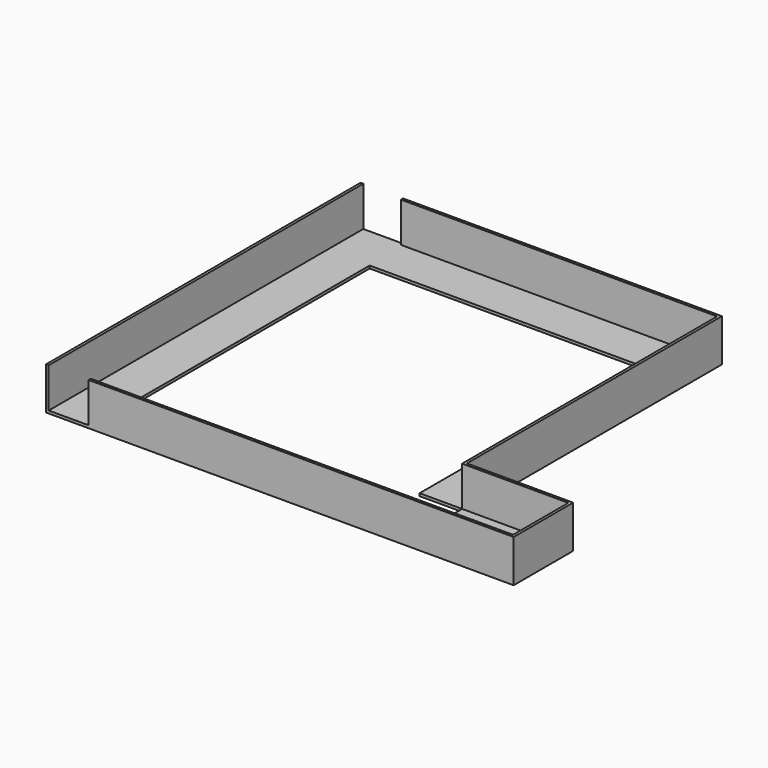
from build123d import *

# Parameters (mm, degrees)
F1_DEPTH  = 50.8
F2_T      = -3.175
F3_W      = 323.85
F3_H      = 361.95
F4_DEPTH  = 25.4
F5_W      = 47.625
F5_H      = 47.625
F6_DEPTH  = 254
F7_W      = 47.625
F7_H      = 47.625
F8_DEPTH  = 25.4
F10_DEPTH = 25.4


with BuildPart() as f1:
    # F0 (on Top) → F1 (new body)
    with BuildSketch(Plane.XY):
        Polygon((-298.1223497814, 269.3835347245), (-298.1223497814, 0), (-298.1223497814, -200.5164652755), (260.6776502186, -200.5164652755), (260.6776502186, -111.6164652755), (133.6776502186, -111.6164652755), (133.6776502186, 269.3835347245), align=None)
    extrude(amount=F1_DEPTH)

    # F2
    f2_openings = [f1.faces().sort_by_distance(p)[0] for p in [
        (-67.49494, 24.392119, 50.8),
    ]]
    offset(amount=F2_T, openings=f2_openings, kind=Kind.INTERSECTION)

    # F3 (on face) → F4 (cut)
    with BuildSketch(Plane.XY.offset(3.175)):
        with Locations((-82.2223497814, 34.4335347245)):
            Rectangle(F3_W, F3_H)
    extrude(amount=-F4_DEPTH, mode=Mode.SUBTRACT)

    # F5 (on face) → F6 (cut, symmetric)
    with BuildSketch(Plane.XZ.offset(-266.2085347245)):
        with Locations((-271.1348497814, 26.9875)):
            Rectangle(F5_W, F5_H)
    extrude(amount=F6_DEPTH, both=True, mode=Mode.SUBTRACT)

    # F7 (on face) → F8 (cut)
    with BuildSketch(Plane(origin=(0, -197.3414652755, 0), x_dir=(-1, 0, 0), z_dir=(0, 1, 0))):
        with Locations((271.1348497814, 26.9875)):
            Rectangle(F7_W, F7_H)
    extrude(amount=-F8_DEPTH, mode=Mode.SUBTRACT)

    # F9 (on face) → F10 (cut)
    with BuildSketch(Plane.XY.offset(3.175)):
        Polygon((130.5026502186, -162.4164652755), (130.5026502186, -114.7914652755), (79.7026502186, -114.7914652755), (79.7026502186, -197.3414652755), (257.5026502186, -197.3414652755), (257.5026502186, -162.4164652755), align=None)
    extrude(amount=-F10_DEPTH, mode=Mode.SUBTRACT)


solid = f1.part
